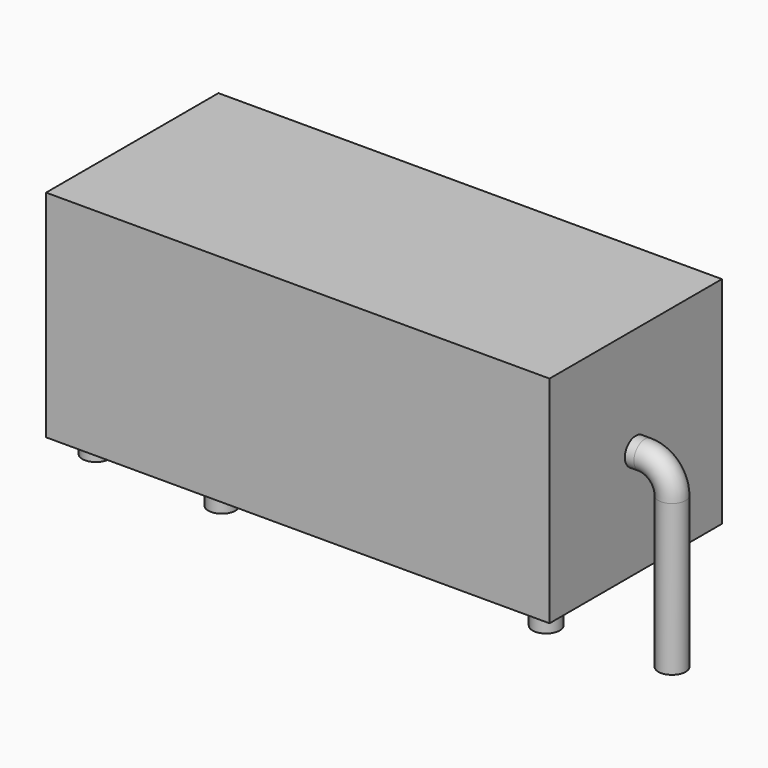
from build123d import *

# Parameters (mm, degrees)
SKETCH_R     = 0.6
SKETCH002_W  = 22.2
SKETCH002_H  = 9.5
PAD_DEPTH    = 4.75
SKETCH004_R  = 0.6
PAD001_DEPTH = 3


with BuildPart() as sweep_body:
    # Sweep: sweep along a path in Sketch001
    with BuildLine(Plane.XZ) as sweep_path:
        Line((0, -3), (0, 3.65))
        ThreePointArc((0, 3.65), (0.351476, 4.498532), (1.200011, 4.85))
        Line((1.200011, 4.85), (24.2, 4.85))
        ThreePointArc((24.2, 4.85), (25.048528, 4.498528), (25.4, 3.65))
        Line((25.4, 3.65), (25.4, -3))
    # Sketch → Sweep (sweep)
    with BuildSketch(Plane.XY.offset(-2)):
        Circle(SKETCH_R)
    sweep(path=sweep_path.line)


with BuildPart() as pad:
    # Sketch002 → Pad (new body, symmetric)
    with BuildSketch(Plane.XZ):
        with Locations((12.7, 4.85)):
            Rectangle(SKETCH002_W, SKETCH002_H)
    extrude(amount=PAD_DEPTH, both=True)


with BuildPart() as pad001:
    # Sketch004 → Pad001 (new body, symmetric)
    with BuildSketch(Plane.XY.offset(-0.2)):
        with Locations((5.55, 0)):
            Circle(SKETCH004_R)
        with Locations((19.85, 0)):
            Circle(SKETCH004_R)
    extrude(amount=PAD001_DEPTH, both=True)


solid = Compound([sweep_body.part, pad.part, pad001.part])
